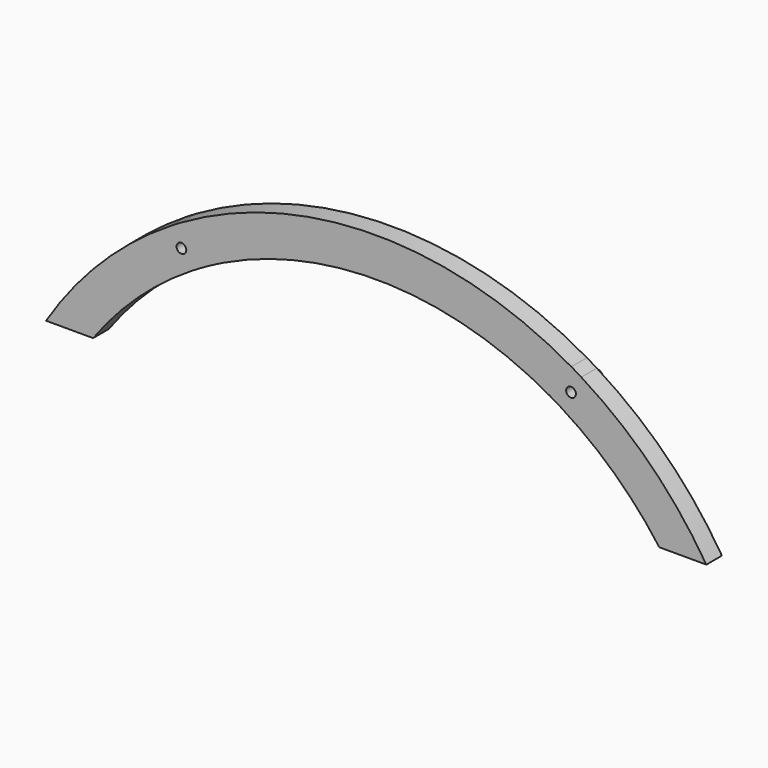
from build123d import *

# Parameters (mm, degrees)
F0_R     = 2.45
F0_R_2   = 1.25
F1_DEPTH = 5
F2_DEPTH = 2.7


with BuildPart() as f1:
    # F0 (on Front) → F1 (new body)
    with BuildSketch(Plane.XZ):
        with BuildLine():
            ThreePointArc((50.0836358252, 13.4458006649), (0, 26.8916013299), (-50.0836358252, 13.4458006649))
            ThreePointArc((-50.0836358252, 13.4458006649), (-48.8562145849, 12.7470900403), (-47.6190477051, 12.0657842722))
            ThreePointArc((-47.6190477051, 12.0657842722), (-43.4045903326, 9.9109244244), (-39.0928846634, 7.9579097983))
            ThreePointArc((-39.0928846634, 7.9579097983), (0, 16.8916013299), (39.0928846634, 7.9579097983))
            ThreePointArc((39.0928846634, 7.9579097983), (43.4045901471, 9.910924335), (47.6190473429, 12.0657840761))
            ThreePointArc((47.6190473429, 12.0657840761), (48.8562144052, 12.7470899397), (50.0836358252, 13.4458006649))
        make_face()
        with BuildLine():
            ThreePointArc((-47.3684207798, 3.4176277054), (-54.2514458754, 5.0374944493), (-52.6315787551, 11.9205194563))
            ThreePointArc((-52.6315787551, 11.9205194563), (-70.5117896256, -2.1993899068), (-84.7319183702, -20))
            Line((-84.7319183702, -20), (-72.6601540784, -20))
            ThreePointArc((-72.6601540784, -20), (-61.1458176612, -7.0690998963), (-47.3684207798, 3.4176277054))
        make_face()
        with BuildLine():
            ThreePointArc((84.7319183702, -20), (70.511789623, -2.1993899042), (52.6315787487, 11.9205194603))
            ThreePointArc((52.6315787487, 11.9205194603), (54.3679453833, 10.1023948559), (55, 7.6690734369))
            ThreePointArc((55, 7.6690734369), (52.4333212381, 3.3011279528), (47.3684208991, 3.4176276316))
            ThreePointArc((47.3684208991, 3.4176276316), (61.1458177127, -7.0690999439), (72.6601540784, -20))
            Line((72.6601540784, -20), (84.7319183702, -20))
        make_face()
        with BuildLine():
            ThreePointArc((-45, 7.6690734369), (-45.7043765601, 10.2279050575), (-47.6190477051, 12.0657842722))
            ThreePointArc((-47.6190477051, 12.0657842722), (-50.1448408517, 12.6669751094), (-52.6315787551, 11.9205194563))
            ThreePointArc((-52.6315787551, 11.9205194563), (-54.2514458754, 5.0374944493), (-47.3684207798, 3.4176277054))
            ThreePointArc((-47.3684207798, 3.4176277054), (-45.6320544817, 5.2357522601), (-45, 7.6690734369))
        make_face()
        with Locations((-50, 7.6690734369)):
            Circle(F0_R, mode=Mode.SUBTRACT)
        with BuildLine():
            ThreePointArc((52.6315787487, 11.9205194603), (50.1448406421, 12.6669751154), (47.6190473429, 12.0657840761))
            ThreePointArc((47.6190473429, 12.0657840761), (45.0020983275, 7.813914286), (47.3684208991, 3.4176276316))
            ThreePointArc((47.3684208991, 3.4176276316), (52.4333212381, 3.3011279528), (55, 7.6690734369))
            ThreePointArc((55, 7.6690734369), (54.3679453833, 10.1023948559), (52.6315787487, 11.9205194603))
        make_face()
        with Locations((50, 7.6690734369)):
            Circle(F0_R, mode=Mode.SUBTRACT)
        with BuildLine():
            ThreePointArc((-39.0928846634, 7.9579097983), (-43.4045903326, 9.9109244244), (-47.6190477051, 12.0657842722))
            ThreePointArc((-47.6190477051, 12.0657842722), (-45.7043765601, 10.2279050575), (-45, 7.6690734369))
            ThreePointArc((-45, 7.6690734369), (-45.6320544817, 5.2357522601), (-47.3684207798, 3.4176277054))
            ThreePointArc((-47.3684207798, 3.4176277054), (-43.2902168521, 5.7963358196), (-39.0928846634, 7.9579097983))
        make_face()
        with BuildLine():
            ThreePointArc((47.3684208991, 3.4176276316), (45.0020983275, 7.813914286), (47.6190473429, 12.0657840761))
            ThreePointArc((47.6190473429, 12.0657840761), (43.4045901471, 9.910924335), (39.0928846634, 7.9579097983))
            ThreePointArc((39.0928846634, 7.9579097983), (43.2902169136, 5.7963357859), (47.3684208991, 3.4176276316))
        make_face()
        with Locations((-50, 7.6690734369)):
            Circle(F0_R)
        with Locations((-50, 7.6690734369)):
            Circle(F0_R_2, mode=Mode.SUBTRACT)
        with Locations((50, 7.6690734369)):
            Circle(F0_R)
        with Locations((50, 7.6690734369)):
            Circle(F0_R_2, mode=Mode.SUBTRACT)
        with BuildLine():
            ThreePointArc((-47.6190477051, 12.0657842722), (-48.8562145849, 12.7470900403), (-50.0836358252, 13.4458006649))
            ThreePointArc((-50.0836358252, 13.4458006649), (-51.363269437, 12.692618531), (-52.6315787551, 11.9205194563))
            ThreePointArc((-52.6315787551, 11.9205194563), (-50.1448408517, 12.6669751094), (-47.6190477051, 12.0657842722))
        make_face()
        with BuildLine():
            ThreePointArc((52.6315787487, 11.9205194603), (51.3632694338, 12.6926185329), (50.0836358252, 13.4458006649))
            ThreePointArc((50.0836358252, 13.4458006649), (48.8562144052, 12.7470899397), (47.6190473429, 12.0657840761))
            ThreePointArc((47.6190473429, 12.0657840761), (50.1448406421, 12.6669751154), (52.6315787487, 11.9205194603))
        make_face()
    extrude(amount=F1_DEPTH)

    # F0 (on Front) → F2 (join)
    with BuildSketch(Plane.XZ):
        with Locations((50, 7.6690734369)):
            Circle(F0_R)
        with Locations((50, 7.6690734369)):
            Circle(F0_R_2, mode=Mode.SUBTRACT)
        with Locations((-50, 7.6690734369)):
            Circle(F0_R)
        with Locations((-50, 7.6690734369)):
            Circle(F0_R_2, mode=Mode.SUBTRACT)
    extrude(amount=-F2_DEPTH)


solid = f1.part
